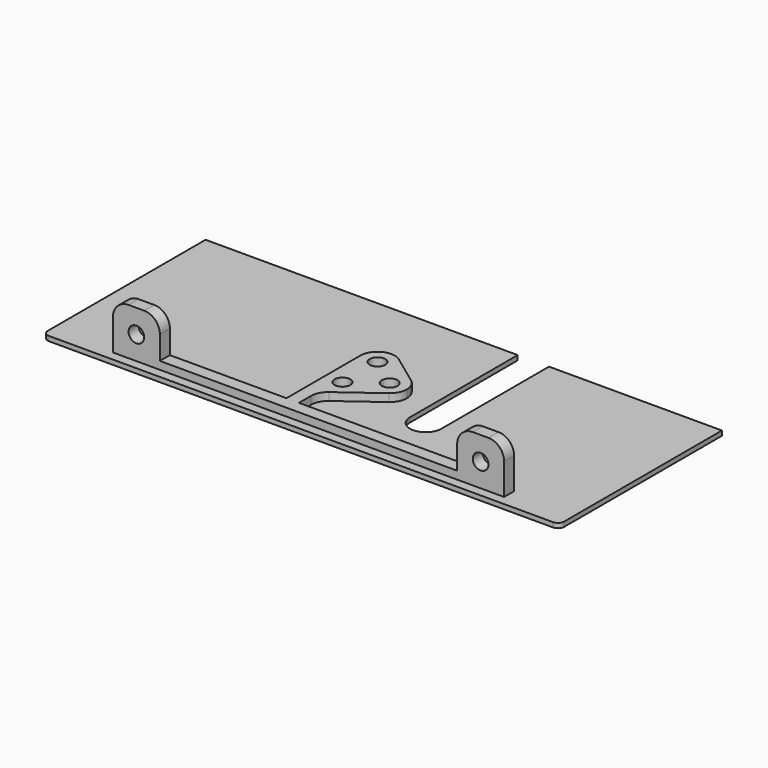
from build123d import *

# Parameters (mm, degrees)
F2_DEPTH  = 1.5
F1_W      = 15
F1_H      = 4
F3_DEPTH  = 16.5
F1_R      = 2.5
F4_DEPTH  = 4
F5_R      = 2.5
F6_DEPTH  = 62.001
F7_R      = 5
F10_ANGLE = 180


with BuildPart() as f2:
    # F1 (on Top) → F2 (new body)
    with BuildSketch(Plane.XY):
        with BuildLine():
            Line((-82.5, 63), (-82.5, 0))
            Line((-82.5, 0), (17.25, 0))
            Line((17.25, 0), (17.25, 43))
            ThreePointArc((17.25, 43), (22.25, 48), (27.25, 43))
            Line((27.25, 43), (27.25, 0))
            Line((27.25, 0), (82.5, 0))
            Line((82.5, 0), (82.5, 63))
            ThreePointArc((82.5, 63), (81.9142135624, 64.4142135624), (80.5, 65))
            Line((80.5, 65), (-80.5, 65))
            ThreePointArc((-80.5, 65), (-81.9142135624, 64.4142135624), (-82.5, 63))
        make_face()
        with BuildLine():
            Line((-62.5, 58), (-62.5, 62))
            Line((-62.5, 62), (-47.5, 62))
            Line((-47.5, 62), (47.5, 62))
            Line((47.5, 62), (62.5, 62))
            Line((62.5, 62), (62.5, 58))
            Line((62.5, 58), (47.5, 58))
            Line((47.5, 58), (-6.25, 58))
            Line((-6.25, 58), (-6.25, 53.2162800982))
            ThreePointArc((-6.25, 53.2162800982), (-5.6588833201, 50.735783263), (-4.0125947093, 48.7884729928))
            Line((-4.0125947093, 48.7884729928), (8.0125947093, 39.9278071054))
            ThreePointArc((8.0125947093, 39.9278071054), (9.6588833201, 37.9804968352), (10.25, 35.5))
            ThreePointArc((10.25, 35.5), (9.6588833201, 33.0195031648), (8.0125947093, 31.0721928946))
            Line((8.0125947093, 31.0721928946), (-1.4874052907, 24.0721928946))
            ThreePointArc((-1.4874052907, 24.0721928946), (-7.2304968352, 23.5911166799), (-10.25, 28.5))
            Line((-10.25, 28.5), (-10.25, 58))
            Line((-10.25, 58), (-47.5, 58))
            Line((-47.5, 58), (-62.5, 58))
        make_face(mode=Mode.SUBTRACT)
    extrude(amount=F2_DEPTH)

    # F1 (on Top) → F3 (join)
    with BuildSketch(Plane.XY):
        with Locations((-55, 60)):
            Rectangle(F1_W, F1_H)
        with Locations((55, 60)):
            Rectangle(F1_W, F1_H)
    extrude(amount=F3_DEPTH)

    # F1 (on Top) → F4 (join)
    with BuildSketch(Plane.XY):
        Polygon((47.5, 62), (-47.5, 62), (-47.5, 58), (-10.25, 58), (-6.25, 58), (47.5, 58), align=None)
        with BuildLine():
            Line((-6.25, 58), (-10.25, 58))
            Line((-10.25, 58), (-10.25, 28.5))
            ThreePointArc((-10.25, 28.5), (-7.2304968352, 23.5911166799), (-1.4874052907, 24.0721928946))
            Line((-1.4874052907, 24.0721928946), (8.0125947093, 31.0721928946))
            ThreePointArc((8.0125947093, 31.0721928946), (9.6588833201, 33.0195031648), (10.25, 35.5))
            ThreePointArc((10.25, 35.5), (9.6588833201, 37.9804968352), (8.0125947093, 39.9278071054))
            Line((8.0125947093, 39.9278071054), (-4.0125947093, 48.7884729928))
            ThreePointArc((-4.0125947093, 48.7884729928), (-5.6588833201, 50.735783263), (-6.25, 53.2162800982))
            Line((-6.25, 53.2162800982), (-6.25, 58))
        make_face()
        with Locations((-4.75, 28.5)):
            Circle(F1_R, mode=Mode.SUBTRACT)
        with Locations((-4.75, 42.5)):
            Circle(F1_R, mode=Mode.SUBTRACT)
        with Locations((4.75, 35.5)):
            Circle(F1_R, mode=Mode.SUBTRACT)
    extrude(amount=F4_DEPTH)

    # F5 (on face) → F6 (cut, through all)
    with BuildSketch(Plane(origin=(0, 62, 0), x_dir=(-1, 0, 0), z_dir=(0, 1, 0))):
        with Locations((55, 9)):
            Circle(F5_R)
        with Locations((-55, 9)):
            Circle(F5_R)
    extrude(amount=-F6_DEPTH, mode=Mode.SUBTRACT)

    # F7
    f7_edges = [f2.edges().sort_by_distance(p)[0] for p in [
        (-62.5, 60, 16.5),
        (-47.5, 60, 16.5),
        (47.5, 60, 16.5),
        (62.5, 60, 16.5),
    ]]
    fillet(f7_edges, radius=F7_R)


with BuildPart() as f8_1:
    # F8: instance of F2
    add(f2.part.mirror(Plane.XY))


with BuildPart() as f8_1_1:
    # F10: moved
    add(f8_1.part.rotate(Axis((-32.625, 0, 0), (1, 0, 0)), F10_ANGLE))


solid = f8_1_1.part
